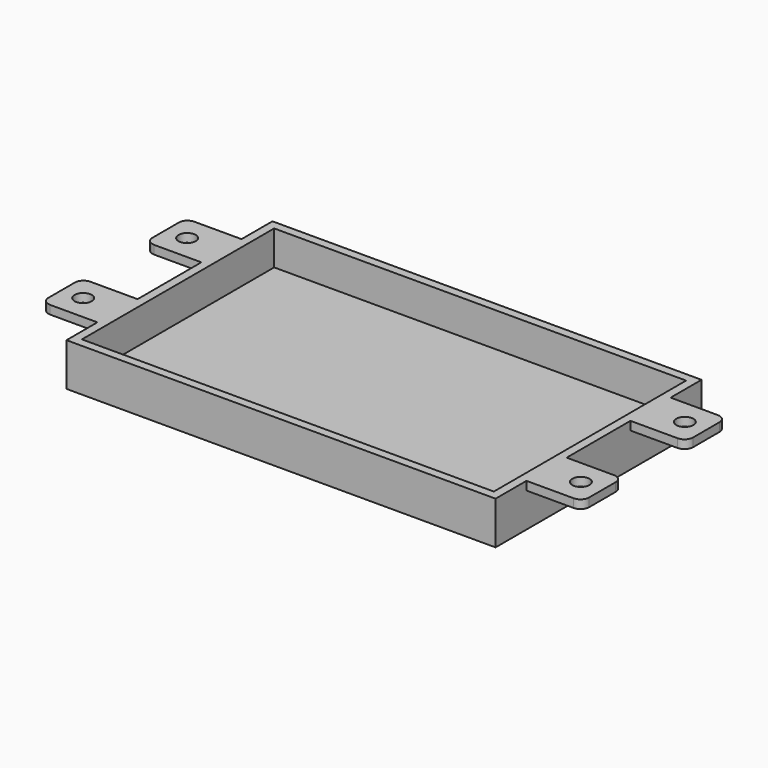
from build123d import *

# Parameters (mm, degrees)
SKETCH_W                = 100
SKETCH_H                = 60
PAD_DEPTH               = 10
THICKNESS_T             = -2
SKETCH001_R             = 2
PAD001_DEPTH            = 2
SKETCH001_MIRRORED_2_R  = 2
PAD001_MIRRORED_2_DEPTH = 2


with BuildPart() as part:
    # Sketch → Pad (new body)
    with BuildSketch(Plane.XY):
        Rectangle(SKETCH_W, SKETCH_H)
    extrude(amount=PAD_DEPTH)

    # Thickness
    thickness_openings = [part.faces().sort_by_distance(p)[0] for p in [
        (0, 0, 10),
    ]]
    offset(amount=THICKNESS_T, openings=thickness_openings)

    # Sketch001 (on Face6 of Thickness) → Pad001 (join)
    with BuildSketch(Plane.XY.offset(10)):
        with BuildLine():
            Line((-61, -9.292408), (-48, -9.292408))
            Line((-48, -9.292408), (-48, -20.993994))
            Line((-48, -20.993994), (-61, -20.993994))
            ThreePointArc((-63, -18.993994), (-62.414214, -20.408207), (-61, -20.993994))
            Line((-63, -18.993994), (-63, -11.292408))
            ThreePointArc((-61, -9.292408), (-62.414214, -9.878194), (-63, -11.292408))
        make_face()
        with Locations((-58, -15.143201)):
            Circle(SKETCH001_R, mode=Mode.SUBTRACT)
    pad001 = extrude(amount=-PAD001_DEPTH)

    # Sketch001 Mirrored 2 → Pad001 Mirrored 2 (add)
    with BuildSketch(Plane(origin=(0, 0, 10), x_dir=(-1, 0, 0), z_dir=(0, 0, -1))):
        with BuildLine():
            Line((-61, -9.292408), (-48, -9.292408))
            Line((-48, -9.292408), (-48, -20.993994))
            Line((-48, -20.993994), (-61, -20.993994))
            ThreePointArc((-63, -18.993994), (-62.414214, -20.408207), (-61, -20.993994))
            Line((-63, -18.993994), (-63, -11.292408))
            ThreePointArc((-61, -9.292408), (-62.414214, -9.878194), (-63, -11.292408))
        make_face()
        with Locations((-58, -15.143201)):
            Circle(SKETCH001_MIRRORED_2_R, mode=Mode.SUBTRACT)
    pad001_mirrored_2 = extrude(amount=PAD001_MIRRORED_2_DEPTH)

    # Mirrored001: Pad001, Pad001 Mirrored 2 across XZ
    add(pad001.mirror(Plane.XZ))
    add(pad001_mirrored_2.mirror(Plane.XZ))


solid = part.part
